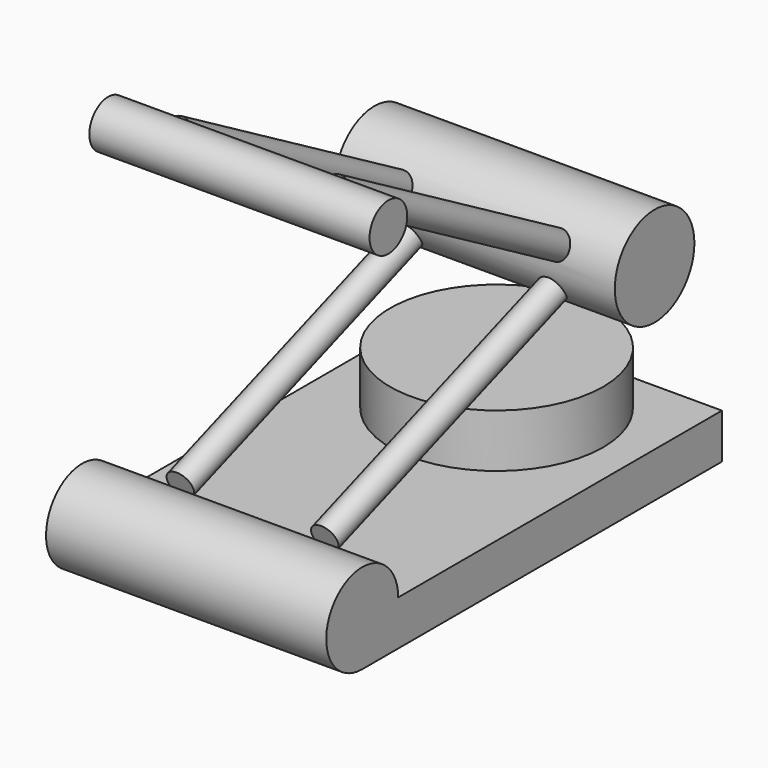
from build123d import *

# Parameters (mm, degrees)
F1_DEPTH = 26.3
F0_R     = 9.3392786486
F0_R_2   = 4.4261331471
F3_R     = 2.5
F4_DEPTH = 69.1
F5_R     = 20
F6_DEPTH = 10
F8_R     = 2.5
F9_DEPTH = 66


with BuildPart() as f1:
    # F0 (on Right) → F1 (new body, symmetric)
    with BuildSketch(Plane.YZ):
        with BuildLine():
            Line((41.3128472865, -8.4402561188), (41.3128472865, 0))
            Line((41.3128472865, 0), (-34.6494913101, 0))
            ThreePointArc((-34.6494913101, 0), (-49.0579097654, 5.9681623365), (-43.0897474289, -8.4402561188))
            Line((-43.0897474289, -8.4402561188), (41.3128472865, -8.4402561188))
        make_face()
    extrude(amount=F1_DEPTH, both=True)

    # F5 (on face) → F6 (join)
    with BuildSketch(Plane.XY):
        with Locations((0, 21.3128472865)):
            Circle(F5_R)
    extrude(amount=F6_DEPTH)


with BuildPart() as f1b:
    # F0 (on Right) → F1, piece 2 (new body, symmetric)
    with BuildSketch(Plane.YZ):
        with Locations((25.5147498101, 30.307456851)):
            Circle(F0_R)
    extrude(amount=F1_DEPTH, both=True)



with BuildPart() as f1c:
    # F0 (on Right) → F1, piece 3 (new body, symmetric)
    with BuildSketch(Plane.YZ):
        with Locations((-36.9500517845, 62.1401146054)):
            Circle(F0_R_2)
    extrude(amount=F1_DEPTH, both=True)


with BuildPart() as f4:
    # F3 (on face) → F4 (new body)
    with BuildSketch(Plane(origin=(0, 6.012548579, -3.4713465406), x_dir=(-1, 0, 0), z_dir=(0, 0.8660254038, -0.5))):
        with Locations((-14.7993247956, 37.5618748367)):
            Circle(F3_R)
        with Locations((14.7993247956, 37.5618748367)):
            Circle(F3_R)
    extrude(amount=-F4_DEPTH)


with BuildPart() as f1b_1:
    add(f1b.part)

    add(f4.part)  # F9 merges F4
    # F8 (on face) → F9 (join)
    with BuildSketch(Plane(origin=(0, 32.2707199323, 11.7455814937), x_dir=(-1, 0, 0), z_dir=(0, 0.9396926208, 0.3420201433))):
        with Locations((13.5618625209, 18.1164778769)):
            Circle(F8_R)
        with Locations((-13.5618625209, 18.1164778769)):
            Circle(F8_R)
    extrude(amount=-F9_DEPTH)


solid = Compound([f1.part, f1c.part, f1b_1.part])
